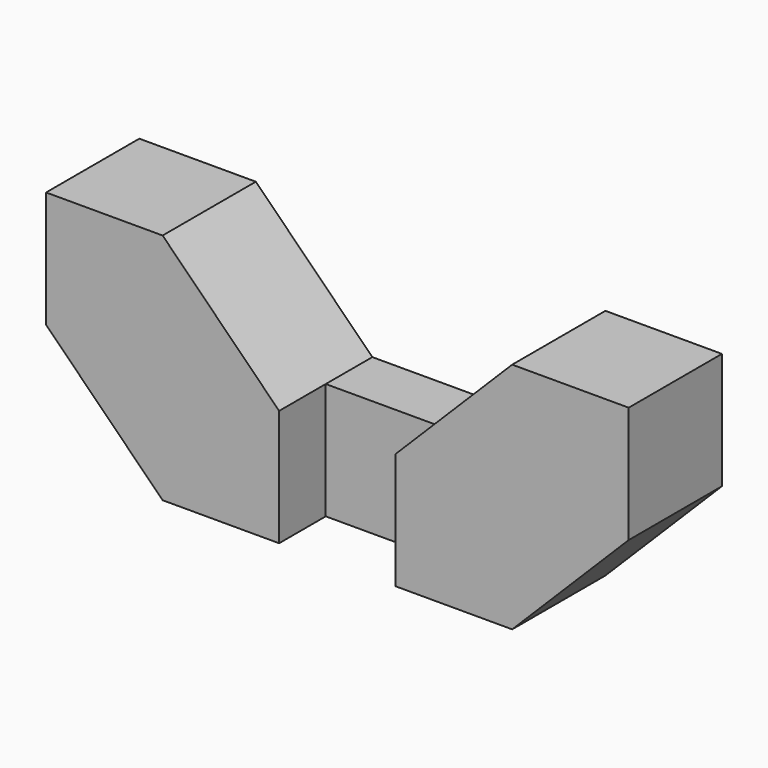
from build123d import *

# Parameters (mm, degrees)
F1_DEPTH = 2.5
F2_W     = 2.5
F2_H     = 5
F3_DEPTH = 10


with BuildPart() as f1:
    # F0 (on Front) → F1 (new body, symmetric)
    with BuildSketch(Plane.XZ):
        Polygon((-7.5, 0), (0, 0), (7.5, 0), (12.5, 5), (12.5, 10), (7.5, 10), (2.5, 5), (0, 5), (-2.5, 5), (-7.5, 10), (-12.5, 10), (-12.5, 5), align=None)
    extrude(amount=F1_DEPTH, both=True)

    # F2 (on Front) → F3 (cut)
    with BuildSketch(Plane.XZ):
        with Locations((1.25, 2.5)):
            Rectangle(F2_W, F2_H)
        with Locations((-1.25, 2.5)):
            Rectangle(F2_W, F2_H)
    extrude(amount=F3_DEPTH, mode=Mode.SUBTRACT)


solid = f1.part
